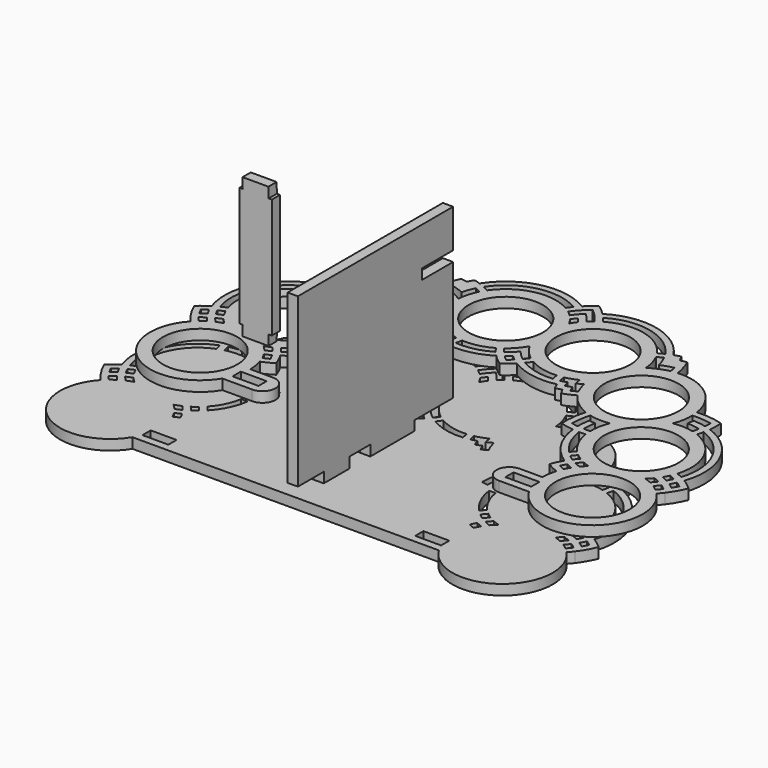
from build123d import *

# Parameters (mm, degrees)
F0_W     = 8
F0_H     = 3.175
F0_R     = 11.5
F1_DEPTH = 3.175
F2_W     = 8
F2_H     = 3.175
F2_W_2   = 3.175
F2_H_2   = 10
F2_H_3   = 17
F3_DEPTH = 3.175
F5_DEPTH = 3.175
F7_DEPTH = 3.175


with BuildPart() as f1:
    # F0 (on Top) → F1 (new body)
    with BuildSketch(Plane.XY):
        with BuildLine():
            ThreePointArc((-35.699812, 62.891525), (-46.490251, 59.550892), (-52.148227, 49.774352))
            ThreePointArc((-52.148227, 49.774352), (-56.254797, 49.679402), (-60.282101, 48.870844))
            ThreePointArc((-60.282101, 48.870844), (-60.317252, 46.785552), (-60.167382, 44.705354))
            ThreePointArc((-60.167382, 44.705354), (-71.229277, 34.783787), (-72.089292, 19.949252))
            ThreePointArc((-72.089292, 19.949252), (-73.809099, 18.769444), (-75.41753, 17.441802))
            ThreePointArc((-75.41753, 17.441802), (-73.538703, 13.789002), (-71.052533, 10.519156))
            ThreePointArc((-71.052533, 10.519156), (-68.976217, -12.39417), (-46.392531, -8))
            Line((-46.392531, -8), (-37.168449, -8))
            ThreePointArc((-37.168449, -8), (-33.168449, -4), (-37.168449, 0))
            Line((-37.168449, 0), (-44.168449, 0))
            ThreePointArc((-44.168449, 0), (-44.339191, 2.294305), (-44.847654, 4.538064))
            ThreePointArc((-44.847654, 4.538064), (-43.003994, 5.378093), (-41.239541, 6.373801))
            ThreePointArc((-41.239541, 6.373801), (-41.997916, 8.246348), (-42.945965, 10.03038))
            ThreePointArc((-42.945965, 10.03038), (-37.061176, 16.089956), (-34.291023, 24.069647))
            ThreePointArc((-34.291023, 24.069647), (-32.229631, 24.386421), (-30.204443, 24.884713))
            ThreePointArc((-30.204443, 24.884713), (-30.312317, 28.990964), (-31.133546, 33.015703))
            ThreePointArc((-31.133546, 33.015703), (-27.162068, 35.314116), (-24.037544, 38.674576))
            ThreePointArc((-24.037544, 38.674576), (-22.231279, 37.756895), (-20.352684, 36.998203))
            ThreePointArc((-20.352684, 36.998203), (-19.83123, 37.871), (-19.355974, 38.769788))
            ThreePointArc((-19.355974, 38.769788), (-18.385963, 38.468742), (-17.402816, 38.213841))
            ThreePointArc((-17.402816, 38.213841), (-16.989123, 39.141424), (-16.619699, 40.087509))
            ThreePointArc((-16.619699, 40.087509), (-9.157617, 39.935949), (-2.185185, 42.598812))
            ThreePointArc((-2.185185, 42.598812), (-0.652264, 41.184656), (1, 39.911981))
            ThreePointArc((1, 39.911981), (2.652264, 41.184656), (4.185185, 42.598812))
            ThreePointArc((4.185185, 42.598812), (11.157617, 39.935949), (18.619699, 40.087509))
            ThreePointArc((18.619699, 40.087509), (18.989123, 39.141424), (19.402816, 38.213841))
            ThreePointArc((19.402816, 38.213841), (20.385963, 38.468742), (21.355974, 38.769788))
            ThreePointArc((21.355974, 38.769788), (21.83123, 37.871), (22.352684, 36.998203))
            ThreePointArc((22.352684, 36.998203), (24.231279, 37.756895), (26.037544, 38.674576))
            ThreePointArc((26.037544, 38.674576), (29.162068, 35.314116), (33.133546, 33.015703))
            ThreePointArc((33.133546, 33.015703), (32.312317, 28.990964), (32.204443, 24.884713))
            ThreePointArc((32.204443, 24.884713), (34.229631, 24.386421), (36.291023, 24.069647))
            ThreePointArc((36.291023, 24.069647), (39.061176, 16.089956), (44.945965, 10.03038))
            ThreePointArc((44.945965, 10.03038), (43.997916, 8.246348), (43.239541, 6.373801))
            ThreePointArc((43.239541, 6.373801), (44.115793, 5.854238), (45.013739, 5.373139))
            ThreePointArc((45.013739, 5.373139), (45.921741, 4.935935), (46.847654, 4.538064))
            ThreePointArc((46.847654, 4.538064), (46.339191, 2.294305), (46.168449, 0))
            Line((46.168449, 0), (39.168449, 0))
            ThreePointArc((39.168449, 0), (35.168449, -4), (39.168449, -8))
            Line((39.168449, -8), (48.392531, -8))
            ThreePointArc((48.392531, -8), (70.976217, -12.39417), (73.052533, 10.519156))
            ThreePointArc((73.052533, 10.519156), (73.714121, 11.279364), (74.342508, 12.067239))
            ThreePointArc((74.342508, 12.067239), (76.057813, 14.652797), (77.41753, 17.441802))
            ThreePointArc((77.41753, 17.441802), (75.809099, 18.769444), (74.089292, 19.949252))
            ThreePointArc((74.089292, 19.949252), (73.229277, 34.783787), (62.167382, 44.705354))
            ThreePointArc((62.167382, 44.705354), (62.317252, 46.785552), (62.282101, 48.870844))
            ThreePointArc((62.282101, 48.870844), (58.254797, 49.679402), (54.148227, 49.774352))
            ThreePointArc((54.148227, 49.774352), (48.490251, 59.550892), (37.699812, 62.891525))
            ThreePointArc((37.699812, 62.891525), (37.017147, 65.872549), (35.953146, 68.739681))
            ThreePointArc((35.953146, 68.739681), (34.933758, 68.577224), (33.923343, 68.366027))
            ThreePointArc((33.923343, 68.366027), (33.458481, 69.287681), (32.949916, 70.18596))
            ThreePointArc((32.949916, 70.18596), (31.955049, 69.905551), (30.973475, 69.581665))
            ThreePointArc((30.973475, 69.581665), (18.839158, 78.158459), (4.185185, 75.695917))
            ThreePointArc((4.185185, 75.695917), (2.652264, 77.110073), (1, 78.382749))
            ThreePointArc((1, 78.382749), (-0.652264, 77.110073), (-2.185185, 75.695917))
            ThreePointArc((-2.185185, 75.695917), (-16.839158, 78.158459), (-28.973475, 69.581665))
            ThreePointArc((-28.973475, 69.581665), (-29.955049, 69.905551), (-30.949916, 70.18596))
            ThreePointArc((-30.949916, 70.18596), (-31.458481, 69.287681), (-31.923343, 68.366027))
            ThreePointArc((-31.923343, 68.366027), (-32.933758, 68.577224), (-33.953146, 68.739681))
            ThreePointArc((-33.953146, 68.739681), (-35.017147, 65.872549), (-35.699812, 62.891525))
        make_face()
        with Locations((-41.168449, -4)):
            Rectangle(F0_W, F0_H, mode=Mode.SUBTRACT)
        with Locations((-59.668449, 0)):
            Circle(F0_R, mode=Mode.SUBTRACT)
        with BuildLine():
            ThreePointArc((-43.740184, 7.248473), (-44.638128, 6.807703), (-45.555602, 6.409176))
            ThreePointArc((-45.555602, 6.409176), (-46.001372, 7.311702), (-46.504783, 8.183391))
            ThreePointArc((-46.504783, 8.183391), (-45.577228, 8.577277), (-44.671261, 9.018555))
            ThreePointArc((-44.671261, 9.018555), (-44.180414, 8.146826), (-43.740184, 7.248473))
        make_face(mode=Mode.SUBTRACT)
        with BuildLine():
            ThreePointArc((-70.874326, 13.441664), (-70.087911, 14.060043), (-69.267445, 14.632474))
            ThreePointArc((-69.267445, 14.632474), (-68.64266, 13.841811), (-67.977863, 13.084481))
            ThreePointArc((-67.977863, 13.084481), (-68.809632, 12.517539), (-69.602848, 11.897803))
            ThreePointArc((-69.602848, 11.897803), (-70.256549, 12.654941), (-70.874326, 13.441664))
        make_face(mode=Mode.SUBTRACT)
        with BuildLine():
            ThreePointArc((-72.001454, 15.104535), (-72.510801, 15.983238), (-72.978081, 16.885014))
            ThreePointArc((-72.978081, 16.885014), (-72.16581, 17.494741), (-71.32565, 18.065428))
            ThreePointArc((-71.32565, 18.065428), (-70.877091, 17.166908), (-70.382868, 16.292674))
            ThreePointArc((-70.382868, 16.292674), (-71.207464, 15.719451), (-72.001454, 15.104535))
        make_face(mode=Mode.SUBTRACT)
        with BuildLine():
            ThreePointArc((-67.773231, 19.913877), (-67.327462, 19.011351), (-66.824051, 18.139663))
            ThreePointArc((-66.824051, 18.139663), (-67.751605, 17.745777), (-68.657573, 17.304498))
            ThreePointArc((-68.657573, 17.304498), (-69.148419, 18.176227), (-69.58865, 19.074581))
            ThreePointArc((-69.58865, 19.074581), (-68.690705, 19.51535), (-67.773231, 19.913877))
        make_face(mode=Mode.SUBTRACT)
        with BuildLine():
            ThreePointArc((-65.616016, 16.458325), (-64.881262, 15.629976), (-64.089246, 14.856196))
            ThreePointArc((-64.089246, 14.856196), (-65.138558, 14.502686), (-66.159956, 14.075168))
            ThreePointArc((-66.159956, 14.075168), (-66.863541, 14.837121), (-67.520754, 15.639415))
            ThreePointArc((-67.520754, 15.639415), (-66.580523, 16.077103), (-65.616016, 16.458325))
        make_face(mode=Mode.SUBTRACT)
        with BuildLine():
            ThreePointArc((-45.808079, 10.683639), (-46.74831, 10.245951), (-47.712818, 9.864729))
            ThreePointArc((-47.712818, 9.864729), (-48.447572, 10.693077), (-49.239587, 11.466858))
            ThreePointArc((-49.239587, 11.466858), (-48.190275, 11.820367), (-47.168878, 12.247886))
            ThreePointArc((-47.168878, 12.247886), (-46.465292, 11.485933), (-45.808079, 10.683639))
        make_face(mode=Mode.SUBTRACT)
        with BuildLine():
            ThreePointArc((-44.061389, 11.69058), (-44.686174, 12.481243), (-45.350971, 13.238572))
            ThreePointArc((-45.350971, 13.238572), (-44.519201, 13.805515), (-43.725985, 14.42525))
            ThreePointArc((-43.725985, 14.42525), (-43.072284, 13.668113), (-42.454507, 12.88139))
            ThreePointArc((-42.454507, 12.88139), (-43.240922, 12.26301), (-44.061389, 11.69058))
        make_face(mode=Mode.SUBTRACT)
        with BuildLine():
            ThreePointArc((-42.276301, 15.803897), (-39.695367, 19.597856), (-38.338317, 23.981206))
            ThreePointArc((-38.338317, 23.981206), (-37.331468, 23.937937), (-36.323691, 23.937876))
            ThreePointArc((-36.323691, 23.937876), (-37.893429, 18.730088), (-40.986326, 14.255815))
            ThreePointArc((-40.986326, 14.255815), (-41.614712, 15.043689), (-42.276301, 15.803897))
        make_face(mode=Mode.SUBTRACT)
        with Locations((-53.660384, 26.323054)):
            Circle(F0_R, mode=Mode.SUBTRACT)
        with BuildLine():
            ThreePointArc((-36.164518, 25.942687), (-37.164781, 25.93517), (-38.164311, 25.974187))
            ThreePointArc((-38.164311, 25.974187), (-38.412838, 29.109148), (-39.289021, 32.129422))
            ThreePointArc((-39.289021, 32.129422), (-36.149503, 31.947281), (-33.037839, 32.402579))
            ThreePointArc((-33.037839, 32.402579), (-32.389659, 29.45455), (-32.160729, 26.444799))
            ThreePointArc((-32.160729, 26.444799), (-33.15711, 26.247885), (-34.16168, 26.098246))
            ThreePointArc((-34.16168, 26.098246), (-34.241574, 28.100636), (-34.526556, 30.084252))
            ThreePointArc((-34.526556, 30.084252), (-35.529708, 29.980592), (-36.537165, 29.93489))
            ThreePointArc((-36.537165, 29.93489), (-36.236128, 27.949496), (-36.164518, 25.942687))
        make_face(mode=Mode.SUBTRACT)
        Polygon((39.168449, -4), (39.168449, -2.4125), (47.168449, -2.4125), (47.168449, -5.5875), (39.168449, -5.5875), align=None, mode=Mode.SUBTRACT)
        with BuildLine():
            ThreePointArc((45.740184, 7.248473), (46.180414, 8.146826), (46.671261, 9.018555))
            ThreePointArc((46.671261, 9.018555), (47.577228, 8.577277), (48.504783, 8.183391))
            ThreePointArc((48.504783, 8.183391), (48.001372, 7.311702), (47.555602, 6.409176))
            ThreePointArc((47.555602, 6.409176), (46.638128, 6.807703), (45.740184, 7.248473))
        make_face(mode=Mode.SUBTRACT)
        with Locations((61.668449, 0)):
            Circle(F0_R, mode=Mode.SUBTRACT)
        with BuildLine():
            ThreePointArc((35.037839, 32.402579), (38.149503, 31.947281), (41.289021, 32.129422))
            ThreePointArc((41.289021, 32.129422), (40.412838, 29.109148), (40.164311, 25.974187))
            ThreePointArc((40.164311, 25.974187), (39.164781, 25.93517), (38.164518, 25.942687))
            ThreePointArc((38.164518, 25.942687), (38.236128, 27.949496), (38.537165, 29.93489))
            ThreePointArc((38.537165, 29.93489), (37.529708, 29.980592), (36.526556, 30.084252))
            ThreePointArc((36.526556, 30.084252), (36.241574, 28.100636), (36.16168, 26.098246))
            ThreePointArc((36.16168, 26.098246), (35.15711, 26.247885), (34.160729, 26.444799))
            ThreePointArc((34.160729, 26.444799), (34.389659, 29.45455), (35.037839, 32.402579))
        make_face(mode=Mode.SUBTRACT)
        with BuildLine():
            ThreePointArc((44.454507, 12.88139), (45.072284, 13.668113), (45.725985, 14.42525))
            ThreePointArc((45.725985, 14.42525), (46.519201, 13.805515), (47.350971, 13.238572))
            ThreePointArc((47.350971, 13.238572), (46.686174, 12.481243), (46.061389, 11.69058))
            ThreePointArc((46.061389, 11.69058), (45.240922, 12.26301), (44.454507, 12.88139))
        make_face(mode=Mode.SUBTRACT)
        with BuildLine():
            ThreePointArc((49.168878, 12.247886), (50.190275, 11.820367), (51.239587, 11.466858))
            ThreePointArc((51.239587, 11.466858), (50.447572, 10.693077), (49.712818, 9.864729))
            ThreePointArc((49.712818, 9.864729), (48.74831, 10.245951), (47.808079, 10.683639))
            ThreePointArc((47.808079, 10.683639), (48.465292, 11.485933), (49.168878, 12.247886))
        make_face(mode=Mode.SUBTRACT)
        with BuildLine():
            ThreePointArc((40.338317, 23.981206), (41.695367, 19.597856), (44.276301, 15.803897))
            ThreePointArc((44.276301, 15.803897), (43.614712, 15.043689), (42.986326, 14.255815))
            ThreePointArc((42.986326, 14.255815), (39.893429, 18.730088), (38.323691, 23.937876))
            ThreePointArc((38.323691, 23.937876), (39.331468, 23.937937), (40.338317, 23.981206))
        make_face(mode=Mode.SUBTRACT)
        with BuildLine():
            ThreePointArc((72.874326, 13.441664), (72.256549, 12.654941), (71.602848, 11.897803))
            ThreePointArc((71.602848, 11.897803), (70.809632, 12.517539), (69.977863, 13.084481))
            ThreePointArc((69.977863, 13.084481), (70.64266, 13.841811), (71.267445, 14.632474))
            ThreePointArc((71.267445, 14.632474), (72.087911, 14.060043), (72.874326, 13.441664))
        make_face(mode=Mode.SUBTRACT)
        with BuildLine():
            ThreePointArc((69.520754, 15.639415), (68.863541, 14.837121), (68.159956, 14.075168))
            ThreePointArc((68.159956, 14.075168), (67.138558, 14.502686), (66.089246, 14.856196))
            ThreePointArc((66.089246, 14.856196), (66.881262, 15.629976), (67.616016, 16.458325))
            ThreePointArc((67.616016, 16.458325), (68.580523, 16.077103), (69.520754, 15.639415))
        make_face(mode=Mode.SUBTRACT)
        with BuildLine():
            ThreePointArc((73.32565, 18.065428), (74.16581, 17.494741), (74.978081, 16.885014))
            ThreePointArc((74.978081, 16.885014), (74.510801, 15.983238), (74.001454, 15.104535))
            ThreePointArc((74.001454, 15.104535), (73.207464, 15.719451), (72.382868, 16.292674))
            ThreePointArc((72.382868, 16.292674), (72.877091, 17.166908), (73.32565, 18.065428))
        make_face(mode=Mode.SUBTRACT)
        with BuildLine():
            ThreePointArc((69.773231, 19.913877), (70.690705, 19.51535), (71.58865, 19.074581))
            ThreePointArc((71.58865, 19.074581), (71.148419, 18.176227), (70.657573, 17.304498))
            ThreePointArc((70.657573, 17.304498), (69.751605, 17.745777), (68.824051, 18.139663))
            ThreePointArc((68.824051, 18.139663), (69.327462, 19.011351), (69.773231, 19.913877))
        make_face(mode=Mode.SUBTRACT)
        with Locations((55.660384, 26.323054)):
            Circle(F0_R, mode=Mode.SUBTRACT)
        with BuildLine():
            ThreePointArc((-59.352998, 40.739855), (-67.625402, 33.048252), (-68.48118, 21.78499))
            ThreePointArc((-68.48118, 21.78499), (-69.407092, 21.387119), (-70.315095, 20.949915))
            ThreePointArc((-70.315095, 20.949915), (-69.427339, 33.916019), (-59.843537, 42.694328))
            ThreePointArc((-59.843537, 42.694328), (-59.619226, 41.711831), (-59.352998, 40.739855))
        make_face(mode=Mode.SUBTRACT)
        with BuildLine():
            ThreePointArc((-57.924411, 43.295622), (-55.951982, 43.672364), (-53.949379, 43.820667))
            ThreePointArc((-53.949379, 43.820667), (-54.129003, 44.813035), (-54.251164, 45.814102))
            ThreePointArc((-54.251164, 45.814102), (-56.248461, 45.650543), (-58.218425, 45.28286))
            ThreePointArc((-58.218425, 45.28286), (-58.296076, 46.295541), (-58.325815, 47.310759))
            ThreePointArc((-58.325815, 47.310759), (-55.340582, 47.7573), (-52.322233, 47.78137))
            ThreePointArc((-52.322233, 47.78137), (-52.073706, 44.646409), (-51.197523, 41.626136))
            ThreePointArc((-51.197523, 41.626136), (-54.337041, 41.808277), (-57.448705, 41.352978))
            ThreePointArc((-57.448705, 41.352978), (-57.709159, 42.318765), (-57.924411, 43.295622))
        make_face(mode=Mode.SUBTRACT)
        with BuildLine():
            ThreePointArc((-23.016047, 40.394691), (-22.210982, 42.270469), (-21.65939, 44.235772))
            ThreePointArc((-21.65939, 44.235772), (-20.759977, 43.719378), (-19.831555, 43.257169))
            ThreePointArc((-19.831555, 43.257169), (-19.614062, 44.271222), (-19.457021, 45.296377))
            ThreePointArc((-19.457021, 45.296377), (-17.576573, 44.502283), (-15.608081, 43.96218))
            ThreePointArc((-15.608081, 43.96218), (-15.792459, 42.979029), (-16.022366, 42.005517))
            ThreePointArc((-16.022366, 42.005517), (-16.996156, 42.234808), (-17.955253, 42.51937))
            ThreePointArc((-17.955253, 42.51937), (-18.232055, 41.558044), (-18.557794, 40.612178))
            ThreePointArc((-18.557794, 40.612178), (-19.500397, 40.947242), (-20.424575, 41.330207))
            ThreePointArc((-20.424575, 41.330207), (-20.800082, 40.402934), (-21.227964, 39.498633))
            ThreePointArc((-21.227964, 39.498633), (-22.132431, 39.925859), (-23.016047, 40.394691))
        make_face(mode=Mode.SUBTRACT)
        with Locations((-36.826159, 47.432504)):
            Circle(F0_R, mode=Mode.SUBTRACT)
        with BuildLine():
            ThreePointArc((-13.626348, 43.688343), (-9.050926, 44.035982), (-4.777778, 45.707972))
            ThreePointArc((-4.777778, 45.707972), (-4.183847, 44.893808), (-3.555556, 44.105858))
            ThreePointArc((-3.555556, 44.105858), (-8.605884, 42.086126), (-14.032401, 41.714587))
            ThreePointArc((-14.032401, 41.714587), (-13.808209, 42.697111), (-13.626348, 43.688343))
        make_face(mode=Mode.SUBTRACT)
        with BuildLine():
            ThreePointArc((-33.303793, 64.574351), (-31.363234, 64.057979), (-29.494605, 63.322699))
            ThreePointArc((-29.494605, 63.322699), (-28.904399, 65.242092), (-28.098195, 67.081235))
            ThreePointArc((-28.098195, 67.081235), (-27.193729, 66.654009), (-26.310112, 66.185177))
            ThreePointArc((-26.310112, 66.185177), (-27.446406, 63.252842), (-27.96744, 60.151509))
            ThreePointArc((-27.96744, 60.151509), (-30.71702, 61.677798), (-33.718078, 62.617688))
            ThreePointArc((-33.718078, 62.617688), (-33.533701, 63.60084), (-33.303793, 64.574351))
        make_face(mode=Mode.SUBTRACT)
        with Locations((-12.5, 59.147365)):
            Circle(F0_R, mode=Mode.SUBTRACT)
        with BuildLine():
            ThreePointArc((-4.777778, 72.586758), (-15.949074, 74.258747), (-25.288616, 67.905293))
            ThreePointArc((-25.288616, 67.905293), (-26.176981, 68.381131), (-27.084931, 68.818445))
            ThreePointArc((-27.084931, 68.818445), (-16.394116, 76.208603), (-3.555556, 74.188871))
            ThreePointArc((-3.555556, 74.188871), (-4.183847, 73.400921), (-4.777778, 72.586758))
        make_face(mode=Mode.SUBTRACT)
        with BuildLine():
            ThreePointArc((17.608081, 43.96218), (19.576573, 44.502283), (21.457021, 45.296377))
            ThreePointArc((21.457021, 45.296377), (21.614062, 44.271222), (21.831555, 43.257169))
            ThreePointArc((21.831555, 43.257169), (22.759977, 43.719378), (23.65939, 44.235772))
            ThreePointArc((23.65939, 44.235772), (24.210982, 42.270469), (25.016047, 40.394691))
            ThreePointArc((25.016047, 40.394691), (24.132431, 39.925859), (23.227964, 39.498633))
            ThreePointArc((23.227964, 39.498633), (22.800082, 40.402934), (22.424575, 41.330207))
            ThreePointArc((22.424575, 41.330207), (21.500397, 40.947242), (20.557794, 40.612178))
            ThreePointArc((20.557794, 40.612178), (20.232055, 41.558044), (19.955253, 42.51937))
            ThreePointArc((19.955253, 42.51937), (18.996156, 42.234808), (18.022366, 42.005517))
            ThreePointArc((18.022366, 42.005517), (17.792459, 42.979029), (17.608081, 43.96218))
        make_face(mode=Mode.SUBTRACT)
        with BuildLine():
            ThreePointArc((-0.518519, 43.762499), (0.257659, 44.39975), (1, 45.076117))
            ThreePointArc((1, 45.076117), (1.742341, 44.39975), (2.518519, 43.762499))
            ThreePointArc((2.518519, 43.762499), (1.775187, 43.070393), (1, 42.414164))
            ThreePointArc((1, 42.414164), (0.224813, 43.070393), (-0.518519, 43.762499))
        make_face(mode=Mode.SUBTRACT)
        with BuildLine():
            ThreePointArc((3.888889, 45.231391), (2.36455, 46.538603), (1, 48.011836))
            ThreePointArc((1, 48.011836), (-0.36455, 46.538603), (-1.888889, 45.231391))
            ThreePointArc((-1.888889, 45.231391), (-2.518419, 46.008742), (-3.111111, 46.814532))
            ThreePointArc((-3.111111, 46.814532), (-0.815054, 48.963454), (1, 51.531592))
            ThreePointArc((1, 51.531592), (2.815054, 48.963454), (5.111111, 46.814532))
            ThreePointArc((5.111111, 46.814532), (4.518419, 46.008742), (3.888889, 45.231391))
        make_face(mode=Mode.SUBTRACT)
        with BuildLine():
            ThreePointArc((6.777778, 45.707972), (11.050926, 44.035982), (15.626348, 43.688343))
            ThreePointArc((15.626348, 43.688343), (15.808209, 42.697111), (16.032401, 41.714587))
            ThreePointArc((16.032401, 41.714587), (10.605884, 42.086126), (5.555556, 44.105858))
            ThreePointArc((5.555556, 44.105858), (6.183847, 44.893808), (6.777778, 45.707972))
        make_face(mode=Mode.SUBTRACT)
        with Locations((38.826159, 47.432504)):
            Circle(F0_R, mode=Mode.SUBTRACT)
        with BuildLine():
            ThreePointArc((70.48118, 21.78499), (69.625402, 33.048252), (61.352998, 40.739855))
            ThreePointArc((61.352998, 40.739855), (61.619226, 41.711831), (61.843537, 42.694328))
            ThreePointArc((61.843537, 42.694328), (71.427339, 33.916019), (72.315095, 20.949915))
            ThreePointArc((72.315095, 20.949915), (71.407092, 21.387119), (70.48118, 21.78499))
        make_face(mode=Mode.SUBTRACT)
        with BuildLine():
            ThreePointArc((59.924411, 43.295622), (59.709159, 42.318765), (59.448705, 41.352978))
            ThreePointArc((59.448705, 41.352978), (56.337041, 41.808277), (53.197523, 41.626136))
            ThreePointArc((53.197523, 41.626136), (54.073706, 44.646409), (54.322233, 47.78137))
            ThreePointArc((54.322233, 47.78137), (57.340582, 47.7573), (60.325815, 47.310759))
            ThreePointArc((60.325815, 47.310759), (60.296076, 46.295541), (60.218425, 45.28286))
            ThreePointArc((60.218425, 45.28286), (58.248461, 45.650543), (56.251164, 45.814102))
            ThreePointArc((56.251164, 45.814102), (56.129003, 44.813035), (55.949379, 43.820667))
            ThreePointArc((55.949379, 43.820667), (57.951982, 43.672364), (59.924411, 43.295622))
        make_face(mode=Mode.SUBTRACT)
        with Locations((14.5, 59.147365)):
            Circle(F0_R, mode=Mode.SUBTRACT)
        with BuildLine():
            ThreePointArc((35.303793, 64.574351), (35.533701, 63.60084), (35.718078, 62.617688))
            ThreePointArc((35.718078, 62.617688), (32.71702, 61.677798), (29.96744, 60.151509))
            ThreePointArc((29.96744, 60.151509), (29.446406, 63.252842), (28.310112, 66.185177))
            ThreePointArc((28.310112, 66.185177), (29.193729, 66.654009), (30.098195, 67.081235))
            ThreePointArc((30.098195, 67.081235), (30.904399, 65.242092), (31.494605, 63.322699))
            ThreePointArc((31.494605, 63.322699), (33.363234, 64.057979), (35.303793, 64.574351))
        make_face(mode=Mode.SUBTRACT)
        with BuildLine():
            ThreePointArc((1, 70.282893), (1.635935, 69.46363), (2.222222, 68.608135))
            ThreePointArc((2.222222, 68.608135), (1.57814, 67.707478), (1, 66.763138))
            ThreePointArc((1, 66.763138), (0.42186, 67.707478), (-0.222222, 68.608135))
            ThreePointArc((-0.222222, 68.608135), (0.364065, 69.46363), (1, 70.282893))
        make_face(mode=Mode.SUBTRACT)
        with BuildLine():
            ThreePointArc((27.288616, 67.905293), (17.949074, 74.258747), (6.777778, 72.586758))
            ThreePointArc((6.777778, 72.586758), (6.183847, 73.400921), (5.555556, 74.188871))
            ThreePointArc((5.555556, 74.188871), (18.394116, 76.208603), (29.084931, 68.818445))
            ThreePointArc((29.084931, 68.818445), (28.176981, 68.381131), (27.288616, 67.905293))
        make_face(mode=Mode.SUBTRACT)
        with BuildLine():
            ThreePointArc((1, 75.880565), (3.210382, 73.825031), (5.111111, 71.480197))
            ThreePointArc((5.111111, 71.480197), (4.330407, 70.844773), (3.592593, 70.160015))
            ThreePointArc((3.592593, 70.160015), (2.375118, 71.756126), (1, 73.218612))
            ThreePointArc((1, 73.218612), (-0.375118, 71.756126), (-1.592593, 70.160015))
            ThreePointArc((-1.592593, 70.160015), (-2.330407, 70.844773), (-3.111111, 71.480197))
            ThreePointArc((-3.111111, 71.480197), (-1.210382, 73.825031), (1, 75.880565))
        make_face(mode=Mode.SUBTRACT)
    extrude(amount=F1_DEPTH)


with BuildPart() as f3:
    # F2 (on Top) → F3 (new body)
    with BuildSketch(Plane.XY):
        with BuildLine():
            ThreePointArc((-37.313135, 30.119021), (-48.103575, 26.778388), (-53.761551, 17.001848))
            ThreePointArc((-53.761551, 17.001848), (-57.868121, 16.906898), (-61.895424, 16.098341))
            ThreePointArc((-61.895424, 16.098341), (-61.930576, 14.013048), (-61.780705, 11.932851))
            ThreePointArc((-61.780705, 11.932851), (-72.842601, 2.011283), (-73.702616, -12.823252))
            ThreePointArc((-73.702616, -12.823252), (-75.422423, -14.00306), (-77.030853, -15.330701))
            ThreePointArc((-77.030853, -15.330701), (-75.152027, -18.983501), (-72.665856, -22.253348))
            ThreePointArc((-72.665856, -22.253348), (-70.589541, -45.166674), (-48.005855, -40.772504))
            Line((-48.005855, -40.772504), (46.779208, -40.772504))
            ThreePointArc((46.779208, -40.772504), (69.362894, -45.166674), (71.439209, -22.253348))
            ThreePointArc((71.439209, -22.253348), (72.100797, -21.493139), (72.729184, -20.705265))
            ThreePointArc((72.729184, -20.705265), (74.444489, -18.119707), (75.804206, -15.330701))
            ThreePointArc((75.804206, -15.330701), (74.195775, -14.00306), (72.475968, -12.823252))
            ThreePointArc((72.475968, -12.823252), (71.615953, 2.011283), (60.554058, 11.932851))
            ThreePointArc((60.554058, 11.932851), (60.703929, 14.013048), (60.668777, 16.098341))
            ThreePointArc((60.668777, 16.098341), (56.641474, 16.906898), (52.534903, 17.001848))
            ThreePointArc((52.534903, 17.001848), (46.876928, 26.778388), (36.086488, 30.119021))
            ThreePointArc((36.086488, 30.119021), (35.403823, 33.100046), (34.339822, 35.967177))
            ThreePointArc((34.339822, 35.967177), (33.320435, 35.804721), (32.31002, 35.593523))
            ThreePointArc((32.31002, 35.593523), (31.845157, 36.515177), (31.336593, 37.413456))
            ThreePointArc((31.336593, 37.413456), (30.341725, 37.133047), (29.360151, 36.809161))
            ThreePointArc((29.360151, 36.809161), (17.225834, 45.385955), (2.571861, 42.923413))
            ThreePointArc((2.571861, 42.923413), (1.038941, 44.337569), (-0.613324, 45.610245))
            ThreePointArc((-0.613324, 45.610245), (-2.265588, 44.337569), (-3.798509, 42.923413))
            ThreePointArc((-3.798509, 42.923413), (-18.452482, 45.385955), (-30.586799, 36.809161))
            ThreePointArc((-30.586799, 36.809161), (-31.568373, 37.133047), (-32.56324, 37.413456))
            ThreePointArc((-32.56324, 37.413456), (-33.071804, 36.515177), (-33.536667, 35.593523))
            ThreePointArc((-33.536667, 35.593523), (-34.547082, 35.804721), (-35.56647, 35.967177))
            ThreePointArc((-35.56647, 35.967177), (-36.63047, 33.100046), (-37.313135, 30.119021))
        make_face()
        with Locations((-42.781773, -36.827998)):
            Rectangle(F2_W, F2_H, mode=Mode.SUBTRACT)
        with BuildLine():
            ThreePointArc((-45.353508, -25.524031), (-46.251452, -25.964801), (-47.168926, -26.363327))
            ThreePointArc((-47.168926, -26.363327), (-47.614695, -25.460802), (-48.118107, -24.589113))
            ThreePointArc((-48.118107, -24.589113), (-47.190552, -24.195227), (-46.284585, -23.753949))
            ThreePointArc((-46.284585, -23.753949), (-45.793738, -24.625678), (-45.353508, -25.524031))
        make_face(mode=Mode.SUBTRACT)
        with BuildLine():
            ThreePointArc((-72.48765, -19.33084), (-71.701235, -18.712461), (-70.880768, -18.14003))
            ThreePointArc((-70.880768, -18.14003), (-70.255984, -18.930693), (-69.591187, -19.688023))
            ThreePointArc((-69.591187, -19.688023), (-70.422956, -20.254965), (-71.216172, -20.8747))
            ThreePointArc((-71.216172, -20.8747), (-71.869873, -20.117563), (-72.48765, -19.33084))
        make_face(mode=Mode.SUBTRACT)
        with BuildLine():
            ThreePointArc((-73.614778, -17.667968), (-74.124124, -16.789266), (-74.591405, -15.88749))
            ThreePointArc((-74.591405, -15.88749), (-73.779134, -15.277762), (-72.938974, -14.707076))
            ThreePointArc((-72.938974, -14.707076), (-72.490415, -15.605596), (-71.996192, -16.47983))
            ThreePointArc((-71.996192, -16.47983), (-72.820788, -17.053053), (-73.614778, -17.667968))
        make_face(mode=Mode.SUBTRACT)
        with BuildLine():
            ThreePointArc((-69.386555, -12.858627), (-68.940785, -13.761152), (-68.437374, -14.632841))
            ThreePointArc((-68.437374, -14.632841), (-69.364929, -15.026727), (-70.270896, -15.468005))
            ThreePointArc((-70.270896, -15.468005), (-70.761743, -14.596276), (-71.201973, -13.697923))
            ThreePointArc((-71.201973, -13.697923), (-70.304029, -13.257153), (-69.386555, -12.858627))
        make_face(mode=Mode.SUBTRACT)
        with BuildLine():
            ThreePointArc((-67.229339, -16.314179), (-66.494586, -17.142528), (-65.70257, -17.916308))
            ThreePointArc((-65.70257, -17.916308), (-66.751882, -18.269818), (-67.773279, -18.697336))
            ThreePointArc((-67.773279, -18.697336), (-68.476865, -17.935383), (-69.134078, -17.133089))
            ThreePointArc((-69.134078, -17.133089), (-68.193847, -16.695401), (-67.229339, -16.314179))
        make_face(mode=Mode.SUBTRACT)
        with BuildLine():
            ThreePointArc((-47.421403, -22.088865), (-48.361634, -22.526553), (-49.326142, -22.907775))
            ThreePointArc((-49.326142, -22.907775), (-50.060895, -22.079426), (-50.852911, -21.305646))
            ThreePointArc((-50.852911, -21.305646), (-49.803599, -20.952136), (-48.782201, -20.524618))
            ThreePointArc((-48.782201, -20.524618), (-48.078616, -21.286571), (-47.421403, -22.088865))
        make_face(mode=Mode.SUBTRACT)
        with BuildLine():
            ThreePointArc((-45.674712, -21.081924), (-46.299497, -20.291261), (-46.964294, -19.533931))
            ThreePointArc((-46.964294, -19.533931), (-46.132525, -18.966989), (-45.339309, -18.347253))
            ThreePointArc((-45.339309, -18.347253), (-44.685608, -19.104391), (-44.067831, -19.891114))
            ThreePointArc((-44.067831, -19.891114), (-44.854246, -20.509493), (-45.674712, -21.081924))
        make_face(mode=Mode.SUBTRACT)
        with BuildLine():
            ThreePointArc((-43.889625, -16.968606), (-41.30869, -13.174648), (-39.95164, -8.791298))
            ThreePointArc((-39.95164, -8.791298), (-38.944792, -8.834567), (-37.937015, -8.834628))
            ThreePointArc((-37.937015, -8.834628), (-39.506753, -14.042416), (-42.59965, -18.516689))
            ThreePointArc((-42.59965, -18.516689), (-43.228036, -17.728815), (-43.889625, -16.968606))
        make_face(mode=Mode.SUBTRACT)
        with BuildLine():
            ThreePointArc((-37.777842, -6.829817), (-38.778105, -6.837333), (-39.777634, -6.798317))
            ThreePointArc((-39.777634, -6.798317), (-40.026161, -3.663355), (-40.902344, -0.643082))
            ThreePointArc((-40.902344, -0.643082), (-37.762826, -0.825223), (-34.651163, -0.369925))
            ThreePointArc((-34.651163, -0.369925), (-34.002983, -3.317954), (-33.774053, -6.327705))
            ThreePointArc((-33.774053, -6.327705), (-34.770434, -6.524619), (-35.775004, -6.674258))
            ThreePointArc((-35.775004, -6.674258), (-35.854897, -4.671868), (-36.13988, -2.688251))
            ThreePointArc((-36.13988, -2.688251), (-37.143031, -2.791912), (-38.150489, -2.837614))
            ThreePointArc((-38.150489, -2.837614), (-37.849452, -4.823008), (-37.777842, -6.829817))
        make_face(mode=Mode.SUBTRACT)
        with Locations((-0.613324, -25.772504)):
            Rectangle(F2_W_2, F2_H_2, mode=Mode.SUBTRACT)
        with Locations((41.555126, -36.827998)):
            Rectangle(F2_W, F2_H, mode=Mode.SUBTRACT)
        with BuildLine():
            ThreePointArc((44.12686, -25.524031), (44.567091, -24.625678), (45.057937, -23.753949))
            ThreePointArc((45.057937, -23.753949), (45.963905, -24.195227), (46.891459, -24.589113))
            ThreePointArc((46.891459, -24.589113), (46.388048, -25.460802), (45.942278, -26.363327))
            ThreePointArc((45.942278, -26.363327), (45.024804, -25.964801), (44.12686, -25.524031))
        make_face(mode=Mode.SUBTRACT)
        with Locations((-0.613324, -4.272504)):
            Rectangle(F2_W_2, F2_H_3, mode=Mode.SUBTRACT)
        with BuildLine():
            ThreePointArc((33.424515, -0.369925), (36.536179, -0.825223), (39.675697, -0.643082))
            ThreePointArc((39.675697, -0.643082), (38.799514, -3.663355), (38.550987, -6.798317))
            ThreePointArc((38.550987, -6.798317), (37.551457, -6.837333), (36.551195, -6.829817))
            ThreePointArc((36.551195, -6.829817), (36.622805, -4.823008), (36.923841, -2.837614))
            ThreePointArc((36.923841, -2.837614), (35.916384, -2.791912), (34.913232, -2.688251))
            ThreePointArc((34.913232, -2.688251), (34.62825, -4.671868), (34.548356, -6.674258))
            ThreePointArc((34.548356, -6.674258), (33.543787, -6.524619), (32.547405, -6.327705))
            ThreePointArc((32.547405, -6.327705), (32.776336, -3.317954), (33.424515, -0.369925))
        make_face(mode=Mode.SUBTRACT)
        with BuildLine():
            ThreePointArc((42.841184, -19.891114), (43.458961, -19.104391), (44.112662, -18.347253))
            ThreePointArc((44.112662, -18.347253), (44.905878, -18.966989), (45.737647, -19.533931))
            ThreePointArc((45.737647, -19.533931), (45.07285, -20.291261), (44.448065, -21.081924))
            ThreePointArc((44.448065, -21.081924), (43.627599, -20.509493), (42.841184, -19.891114))
        make_face(mode=Mode.SUBTRACT)
        with BuildLine():
            ThreePointArc((47.555554, -20.524618), (48.576951, -20.952136), (49.626263, -21.305646))
            ThreePointArc((49.626263, -21.305646), (48.834248, -22.079426), (48.099494, -22.907775))
            ThreePointArc((48.099494, -22.907775), (47.134986, -22.526553), (46.194755, -22.088865))
            ThreePointArc((46.194755, -22.088865), (46.851969, -21.286571), (47.555554, -20.524618))
        make_face(mode=Mode.SUBTRACT)
        with BuildLine():
            ThreePointArc((38.724993, -8.791298), (40.082043, -13.174648), (42.662977, -16.968606))
            ThreePointArc((42.662977, -16.968606), (42.001389, -17.728815), (41.373002, -18.516689))
            ThreePointArc((41.373002, -18.516689), (38.280105, -14.042416), (36.710367, -8.834628))
            ThreePointArc((36.710367, -8.834628), (37.718145, -8.834567), (38.724993, -8.791298))
        make_face(mode=Mode.SUBTRACT)
        with BuildLine():
            ThreePointArc((71.261002, -19.33084), (70.643225, -20.117563), (69.989524, -20.8747))
            ThreePointArc((69.989524, -20.8747), (69.196308, -20.254965), (68.364539, -19.688023))
            ThreePointArc((68.364539, -19.688023), (69.029336, -18.930693), (69.654121, -18.14003))
            ThreePointArc((69.654121, -18.14003), (70.474587, -18.712461), (71.261002, -19.33084))
        make_face(mode=Mode.SUBTRACT)
        with BuildLine():
            ThreePointArc((67.907431, -17.133089), (67.250217, -17.935383), (66.546632, -18.697336))
            ThreePointArc((66.546632, -18.697336), (65.525235, -18.269818), (64.475923, -17.916308))
            ThreePointArc((64.475923, -17.916308), (65.267938, -17.142528), (66.002692, -16.314179))
            ThreePointArc((66.002692, -16.314179), (66.9672, -16.695401), (67.907431, -17.133089))
        make_face(mode=Mode.SUBTRACT)
        with BuildLine():
            ThreePointArc((71.712326, -14.707076), (72.552486, -15.277762), (73.364757, -15.88749))
            ThreePointArc((73.364757, -15.88749), (72.897477, -16.789266), (72.38813, -17.667968))
            ThreePointArc((72.38813, -17.667968), (71.59414, -17.053053), (70.769545, -16.47983))
            ThreePointArc((70.769545, -16.47983), (71.263767, -15.605596), (71.712326, -14.707076))
        make_face(mode=Mode.SUBTRACT)
        with BuildLine():
            ThreePointArc((68.159908, -12.858627), (69.077381, -13.257153), (69.975326, -13.697923))
            ThreePointArc((69.975326, -13.697923), (69.535095, -14.596276), (69.044249, -15.468005))
            ThreePointArc((69.044249, -15.468005), (68.138281, -15.026727), (67.210727, -14.632841))
            ThreePointArc((67.210727, -14.632841), (67.714138, -13.761152), (68.159908, -12.858627))
        make_face(mode=Mode.SUBTRACT)
        with BuildLine():
            ThreePointArc((-60.966322, 7.967351), (-69.238725, 0.275748), (-70.094503, -10.987514))
            ThreePointArc((-70.094503, -10.987514), (-71.020416, -11.385385), (-71.928418, -11.822589))
            ThreePointArc((-71.928418, -11.822589), (-71.040663, 1.143515), (-61.456861, 9.921824))
            ThreePointArc((-61.456861, 9.921824), (-61.23255, 8.939327), (-60.966322, 7.967351))
        make_face(mode=Mode.SUBTRACT)
        with BuildLine():
            ThreePointArc((-59.537735, 10.523118), (-57.565305, 10.899861), (-55.562702, 11.048163))
            ThreePointArc((-55.562702, 11.048163), (-55.742326, 12.040531), (-55.864488, 13.041599))
            ThreePointArc((-55.864488, 13.041599), (-57.861785, 12.878039), (-59.831749, 12.510356))
            ThreePointArc((-59.831749, 12.510356), (-59.9094, 13.523037), (-59.939138, 14.538255))
            ThreePointArc((-59.939138, 14.538255), (-56.953906, 14.984797), (-53.935557, 15.008866))
            ThreePointArc((-53.935557, 15.008866), (-53.68703, 11.873905), (-52.810847, 8.853632))
            ThreePointArc((-52.810847, 8.853632), (-55.950365, 9.035773), (-59.062028, 8.580474))
            ThreePointArc((-59.062028, 8.580474), (-59.322483, 9.546262), (-59.537735, 10.523118))
        make_face(mode=Mode.SUBTRACT)
        with BuildLine():
            ThreePointArc((-24.629371, 7.622188), (-23.824306, 9.497965), (-23.272713, 11.463269))
            ThreePointArc((-23.272713, 11.463269), (-22.373301, 10.946874), (-21.444879, 10.484666))
            ThreePointArc((-21.444879, 10.484666), (-21.227386, 11.498718), (-21.070345, 12.523873))
            ThreePointArc((-21.070345, 12.523873), (-19.189896, 11.729779), (-17.221405, 11.189676))
            ThreePointArc((-17.221405, 11.189676), (-17.405783, 10.206525), (-17.63569, 9.233013))
            ThreePointArc((-17.63569, 9.233013), (-18.60948, 9.462304), (-19.568577, 9.746866))
            ThreePointArc((-19.568577, 9.746866), (-19.845379, 8.78554), (-20.171118, 7.839675))
            ThreePointArc((-20.171118, 7.839675), (-21.11372, 8.174739), (-22.037899, 8.557703))
            ThreePointArc((-22.037899, 8.557703), (-22.413406, 7.63043), (-22.841288, 6.726129))
            ThreePointArc((-22.841288, 6.726129), (-23.745754, 7.153355), (-24.629371, 7.622188))
        make_face(mode=Mode.SUBTRACT)
        with BuildLine():
            ThreePointArc((-15.239671, 10.915839), (-10.664249, 11.263478), (-6.391102, 12.935468))
            ThreePointArc((-6.391102, 12.935468), (-5.797171, 12.121305), (-5.168879, 11.333354))
            ThreePointArc((-5.168879, 11.333354), (-10.219207, 9.313622), (-15.645725, 8.942083))
            ThreePointArc((-15.645725, 8.942083), (-15.421533, 9.924607), (-15.239671, 10.915839))
        make_face(mode=Mode.SUBTRACT)
        with BuildLine():
            ThreePointArc((-34.917117, 31.801847), (-32.976557, 31.285476), (-31.107928, 30.550195))
            ThreePointArc((-31.107928, 30.550195), (-30.517723, 32.469588), (-29.711519, 34.308731))
            ThreePointArc((-29.711519, 34.308731), (-28.807052, 33.881505), (-27.923436, 33.412673))
            ThreePointArc((-27.923436, 33.412673), (-29.05973, 30.480339), (-29.580764, 27.379005))
            ThreePointArc((-29.580764, 27.379005), (-32.330343, 28.905294), (-35.331402, 29.845184))
            ThreePointArc((-35.331402, 29.845184), (-35.147024, 30.828336), (-34.917117, 31.801847))
        make_face(mode=Mode.SUBTRACT)
        with BuildLine():
            ThreePointArc((-6.391102, 39.814254), (-17.562398, 41.486243), (-26.90194, 35.132789))
            ThreePointArc((-26.90194, 35.132789), (-27.790305, 35.608628), (-28.698255, 36.045941))
            ThreePointArc((-28.698255, 36.045941), (-18.00744, 43.436099), (-5.168879, 41.416367))
            ThreePointArc((-5.168879, 41.416367), (-5.797171, 40.628417), (-6.391102, 39.814254))
        make_face(mode=Mode.SUBTRACT)
        with BuildLine():
            ThreePointArc((15.994757, 11.189676), (17.963249, 11.729779), (19.843697, 12.523873))
            ThreePointArc((19.843697, 12.523873), (20.000738, 11.498718), (20.218231, 10.484666))
            ThreePointArc((20.218231, 10.484666), (21.146654, 10.946874), (22.046066, 11.463269))
            ThreePointArc((22.046066, 11.463269), (22.597659, 9.497965), (23.402723, 7.622188))
            ThreePointArc((23.402723, 7.622188), (22.519107, 7.153355), (21.61464, 6.726129))
            ThreePointArc((21.61464, 6.726129), (21.186759, 7.63043), (20.811251, 8.557703))
            ThreePointArc((20.811251, 8.557703), (19.887073, 8.174739), (18.944471, 7.839675))
            ThreePointArc((18.944471, 7.839675), (18.618731, 8.78554), (18.341929, 9.746866))
            ThreePointArc((18.341929, 9.746866), (17.382833, 9.462304), (16.409042, 9.233013))
            ThreePointArc((16.409042, 9.233013), (16.179135, 10.206525), (15.994757, 11.189676))
        make_face(mode=Mode.SUBTRACT)
        with BuildLine():
            ThreePointArc((-2.131842, 10.989995), (-1.355664, 11.627247), (-0.613324, 12.303614))
            ThreePointArc((-0.613324, 12.303614), (0.129017, 11.627247), (0.905195, 10.989995))
            ThreePointArc((0.905195, 10.989995), (0.161864, 10.297889), (-0.613324, 9.64166))
            ThreePointArc((-0.613324, 9.64166), (-1.388511, 10.297889), (-2.131842, 10.989995))
        make_face(mode=Mode.SUBTRACT)
        with BuildLine():
            ThreePointArc((2.275565, 12.458887), (0.751227, 13.766099), (-0.613324, 15.239332))
            ThreePointArc((-0.613324, 15.239332), (-1.977874, 13.766099), (-3.502213, 12.458887))
            ThreePointArc((-3.502213, 12.458887), (-4.131743, 13.236238), (-4.724435, 14.042028))
            ThreePointArc((-4.724435, 14.042028), (-2.428377, 16.190951), (-0.613324, 18.759088))
            ThreePointArc((-0.613324, 18.759088), (1.20173, 16.190951), (3.497787, 14.042028))
            ThreePointArc((3.497787, 14.042028), (2.905095, 13.236238), (2.275565, 12.458887))
        make_face(mode=Mode.SUBTRACT)
        with BuildLine():
            ThreePointArc((5.164454, 12.935468), (9.437602, 11.263478), (14.013024, 10.915839))
            ThreePointArc((14.013024, 10.915839), (14.194885, 9.924607), (14.419077, 8.942083))
            ThreePointArc((14.419077, 8.942083), (8.99256, 9.313622), (3.942232, 11.333354))
            ThreePointArc((3.942232, 11.333354), (4.570523, 12.121305), (5.164454, 12.935468))
        make_face(mode=Mode.SUBTRACT)
        with BuildLine():
            ThreePointArc((68.867856, -10.987514), (68.012078, 0.275748), (59.739674, 7.967351))
            ThreePointArc((59.739674, 7.967351), (60.005903, 8.939327), (60.230214, 9.921824))
            ThreePointArc((60.230214, 9.921824), (69.814016, 1.143515), (70.701771, -11.822589))
            ThreePointArc((70.701771, -11.822589), (69.793768, -11.385385), (68.867856, -10.987514))
        make_face(mode=Mode.SUBTRACT)
        with BuildLine():
            ThreePointArc((58.311087, 10.523118), (58.095836, 9.546262), (57.835381, 8.580474))
            ThreePointArc((57.835381, 8.580474), (54.723717, 9.035773), (51.584199, 8.853632))
            ThreePointArc((51.584199, 8.853632), (52.460382, 11.873905), (52.708909, 15.008866))
            ThreePointArc((52.708909, 15.008866), (55.727259, 14.984797), (58.712491, 14.538255))
            ThreePointArc((58.712491, 14.538255), (58.682752, 13.523037), (58.605101, 12.510356))
            ThreePointArc((58.605101, 12.510356), (56.635138, 12.878039), (54.63784, 13.041599))
            ThreePointArc((54.63784, 13.041599), (54.515679, 12.040531), (54.336055, 11.048163))
            ThreePointArc((54.336055, 11.048163), (56.338658, 10.899861), (58.311087, 10.523118))
        make_face(mode=Mode.SUBTRACT)
        with BuildLine():
            ThreePointArc((33.69047, 31.801847), (33.920377, 30.828336), (34.104755, 29.845184))
            ThreePointArc((34.104755, 29.845184), (31.103696, 28.905294), (28.354116, 27.379005))
            ThreePointArc((28.354116, 27.379005), (27.833082, 30.480339), (26.696788, 33.412673))
            ThreePointArc((26.696788, 33.412673), (27.580405, 33.881505), (28.484872, 34.308731))
            ThreePointArc((28.484872, 34.308731), (29.291075, 32.469588), (29.881281, 30.550195))
            ThreePointArc((29.881281, 30.550195), (31.74991, 31.285476), (33.69047, 31.801847))
        make_face(mode=Mode.SUBTRACT)
        with BuildLine():
            ThreePointArc((-0.613324, 37.51039), (0.022611, 36.691127), (0.608898, 35.835631))
            ThreePointArc((0.608898, 35.835631), (-0.035184, 34.934974), (-0.613324, 33.990634))
            ThreePointArc((-0.613324, 33.990634), (-1.191464, 34.934974), (-1.835546, 35.835631))
            ThreePointArc((-1.835546, 35.835631), (-1.249259, 36.691127), (-0.613324, 37.51039))
        make_face(mode=Mode.SUBTRACT)
        with BuildLine():
            ThreePointArc((25.675292, 35.132789), (16.335751, 41.486243), (5.164454, 39.814254))
            ThreePointArc((5.164454, 39.814254), (4.570523, 40.628417), (3.942232, 41.416367))
            ThreePointArc((3.942232, 41.416367), (16.780793, 43.436099), (27.471607, 36.045941))
            ThreePointArc((27.471607, 36.045941), (26.563658, 35.608628), (25.675292, 35.132789))
        make_face(mode=Mode.SUBTRACT)
        with BuildLine():
            ThreePointArc((-0.613324, 43.108061), (1.597059, 41.052527), (3.497787, 38.707694))
            ThreePointArc((3.497787, 38.707694), (2.717083, 38.072269), (1.979269, 37.387511))
            ThreePointArc((1.979269, 37.387511), (0.761794, 38.983622), (-0.613324, 40.446108))
            ThreePointArc((-0.613324, 40.446108), (-1.988442, 38.983622), (-3.205916, 37.387511))
            ThreePointArc((-3.205916, 37.387511), (-3.94373, 38.072269), (-4.724435, 38.707694))
            ThreePointArc((-4.724435, 38.707694), (-2.823706, 41.052527), (-0.613324, 43.108061))
        make_face(mode=Mode.SUBTRACT)
    extrude(amount=-F3_DEPTH)


with BuildPart() as f5:
    # F4 (on Front) → F5 (new body)
    with BuildSketch(Plane.XZ):
        Polygon((-43.959193, 53.622076), (-44.959193, 53.622076), (-44.959193, 16.622076), (-43.959193, 16.622076), (-44.009125, 13.447469), (-36.009125, 13.447469), (-35.959193, 16.622076), (-34.959193, 16.622076), (-34.959193, 53.622076), (-35.959193, 53.622076), (-36.023857, 56.796417), (-44.023857, 56.796417), align=None)
    extrude(amount=F5_DEPTH)


with BuildPart() as f7:
    # F6 (on Right) → F7 (new body)
    with BuildSketch(Plane.YZ):
        Polygon((-30.786199, 3.175), (-30.786199, 0), (-20.78668, 0), (-20.78668, 3.273046), (-12.78668, 3.273046), (-12.78668, 0), (4.213801, 0), (4.213801, 2.952535), (19.213801, 2.952535), (19.213801, 39.952535), (7.125801, 39.952535), (7.125801, 43.122293), (19.213801, 43.122293), (19.213801, 55), (-40.786199, 55), (-40.786199, 3.175), align=None)
    extrude(amount=F7_DEPTH)


solid = Compound([f1.part, f3.part, f5.part, f7.part])
